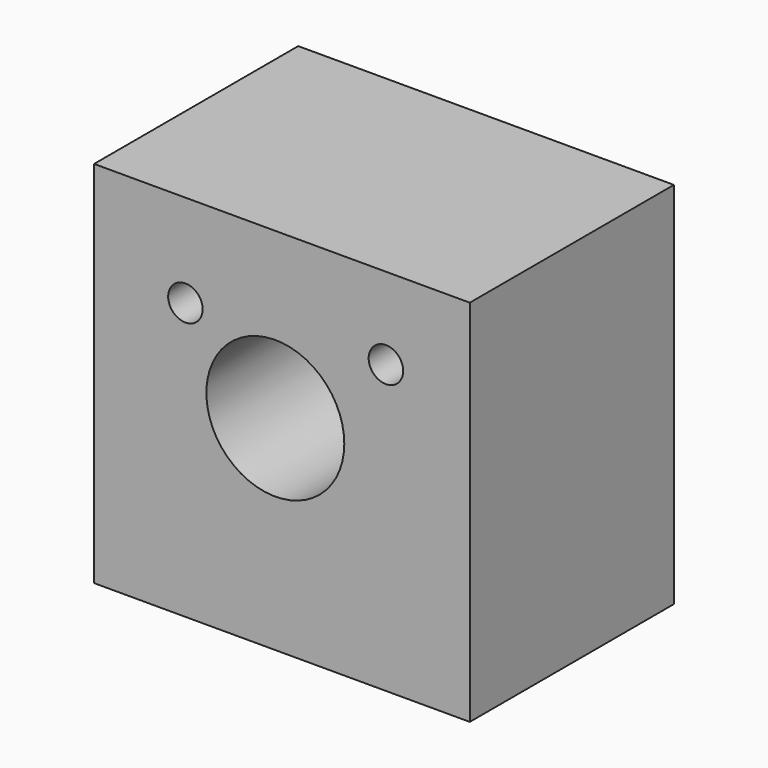
from build123d import *

# Parameters (mm, degrees)
F0_W     = 69.189604
F0_H     = 67.970401
F1_DEPTH = 46.99
F4_D     = 25.4
F5_D     = 6.35
F6_D     = 6.35


with BuildPart() as f1:
    # F0 (on Front) → F1 (new body)
    with BuildSketch(Plane.XZ):
        with Locations((1.2192, 2.895598)):
            Rectangle(F0_W, F0_H)
    extrude(amount=F1_DEPTH)

    # F4 (through all)
    with Locations(Plane(origin=(0, 0, 0), x_dir=(-1, 0, 0), z_dir=(0, 1, 0))):
        with Locations((0, 6.492837)):
            Hole(F4_D / 2)

    # F5 (through all)
    with Locations(Plane(origin=(0, 0, 0), x_dir=(-1, 0, 0), z_dir=(0, 1, 0))):
        with Locations((-20.368258, 21.817673)):
            Hole(F5_D / 2)

    # F6 (through all)
    with Locations(Plane(origin=(0, 0, 0), x_dir=(-1, 0, 0), z_dir=(0, 1, 0))):
        with Locations((16.558066, 19.802285)):
            Hole(F6_D / 2)


solid = f1.part
